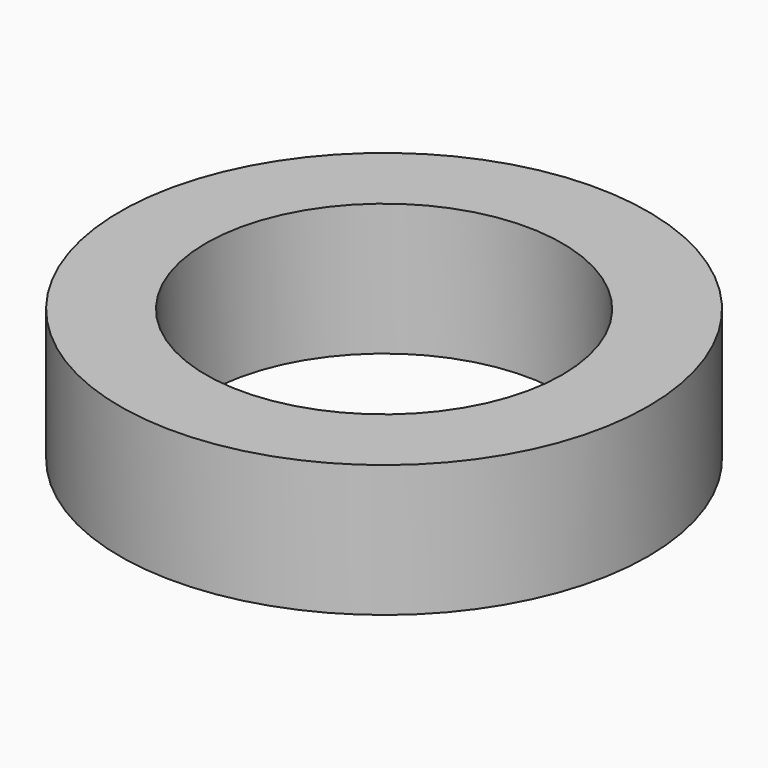
from build123d import *

# Parameters (mm, degrees)
CYLINDER014005848_R     = 2.7
CYLINDER014005848_DEPTH = 3
CYLINDER014005847_R     = 4
CYLINDER014005847_DEPTH = 2


with BuildPart() as obj1:
    # Cylinder014005848 → Cylinder014005848 (new body)
    with BuildSketch(Plane.XY.offset(-1)):
        Circle(CYLINDER014005848_R)
    extrude(amount=CYLINDER014005848_DEPTH)


with BuildPart() as obj2:
    # Cylinder014005847 → Cylinder014005847 (new body)
    with BuildSketch(Plane.XY.offset(-1)):
        Circle(CYLINDER014005847_R)
    extrude(amount=CYLINDER014005847_DEPTH)

    # Cut061311: cut obj1
    add(obj1.part, mode=Mode.SUBTRACT)


solid = obj2.part
